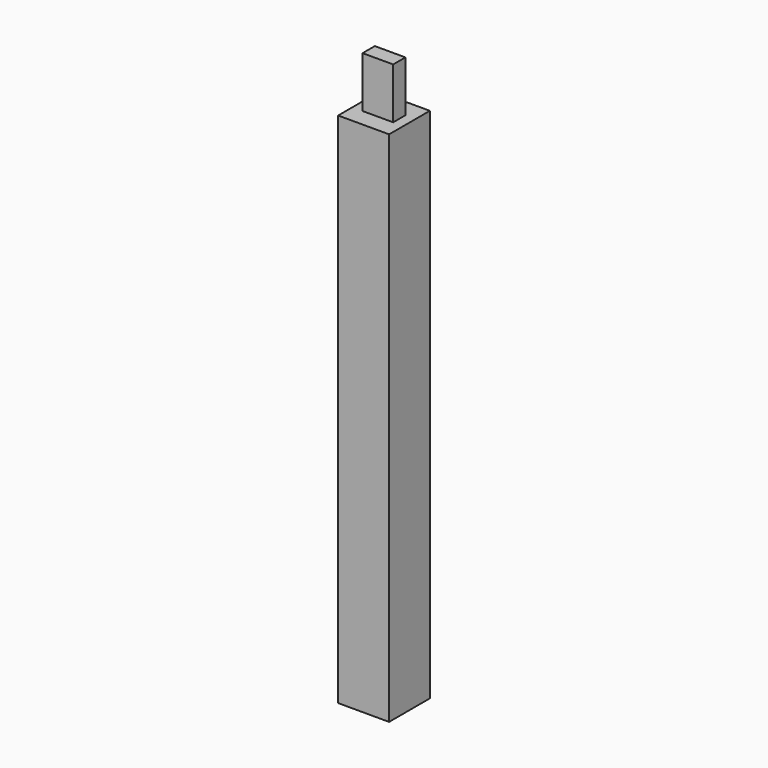
from build123d import *

# Parameters (mm, degrees)
F0_W     = 200
F0_H     = 200
F1_DEPTH = 2230
F2_W     = 200
F2_H     = 200
F2_W_2   = 120
F2_H_2   = 60
F3_DEPTH = 200


with BuildPart() as f1:
    # F0 (on Top) → F1 (new body)
    with BuildSketch(Plane.XY):
        with Locations((100, 100)):
            Rectangle(F0_W, F0_H)
    extrude(amount=F1_DEPTH)

    # F2 (on face) → F3 (cut)
    with BuildSketch(Plane.XY.offset(2230)):
        with Locations((100, 100)):
            Rectangle(F2_W, F2_H)
        with Locations((100, 100)):
            Rectangle(F2_W_2, F2_H_2, mode=Mode.SUBTRACT)
    extrude(amount=-F3_DEPTH, mode=Mode.SUBTRACT)


solid = f1.part
